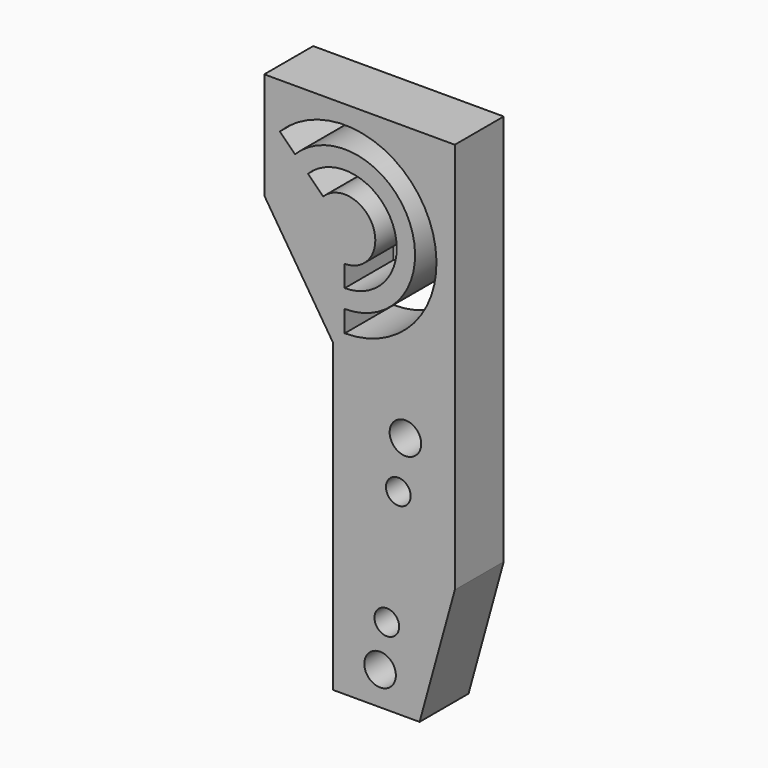
from build123d import *

# Parameters (mm, degrees)
F0_R     = 1.29
F0_R_2   = 1.01
F1_DEPTH = 5
F3_DEPTH = 5.001


with BuildPart() as f1:
    # F0 (on Front) → F1 (new body)
    with BuildSketch(Plane.XZ):
        Polygon((-21.628658, 26.47), (-37.208658, 26.47), (-37.208658, 17.745), (-31.608658, 9.02), (-31.608658, -16.01), (-24.508658, -16.01), (-21.628658, -5.57), align=None)
        with Locations((-27.738658, -13.293397)):
            Circle(F0_R, mode=Mode.SUBTRACT)
        with Locations((-27.188658, -9.706642)):
            Circle(F0_R_2, mode=Mode.SUBTRACT)
        with Locations((-26.248658, 0)):
            Circle(F0_R_2, mode=Mode.SUBTRACT)
        with Locations((-25.668658, 4.04)):
            Circle(F0_R, mode=Mode.SUBTRACT)
    extrude(amount=F1_DEPTH)

    # F2 (on face) → F3 (cut, through all)
    with BuildSketch(Plane.XZ.offset(5)):
        with BuildLine():
            ThreePointArc((-32.396425, 19.237767), (-28.318959, 18.426709), (-30.628658, 14.97))
            Line((-30.628658, 14.97), (-30.628658, 13.22))
            ThreePointArc((-30.628658, 13.22), (-26.70217, 19.096405), (-33.633862, 20.475204))
            Line((-33.633862, 20.475204), (-32.396425, 19.237767))
        make_face()
        with BuildLine():
            ThreePointArc((-34.694522, 21.535864), (-25.316351, 19.67043), (-30.628658, 11.72))
            Line((-30.628658, 11.72), (-30.628658, 9.97))
            ThreePointArc((-30.628658, 9.97), (-23.699562, 20.340126), (-35.931959, 22.773301))
            Line((-35.931959, 22.773301), (-34.694522, 21.535864))
        make_face()
    extrude(amount=-F3_DEPTH, mode=Mode.SUBTRACT)


solid = f1.part
